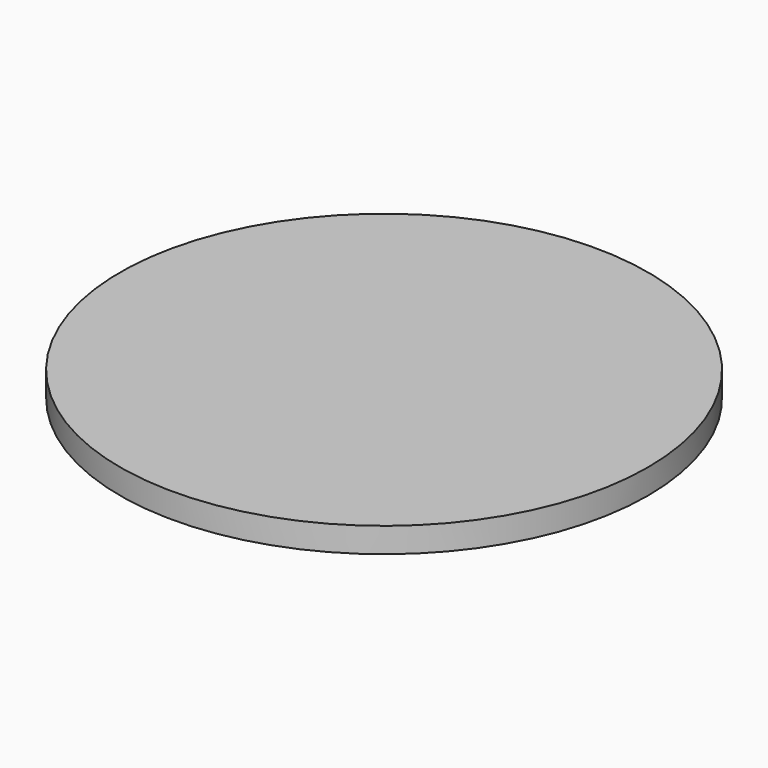
from build123d import *

# Parameters (mm, degrees)
F0_R     = 14.25
F0_R_2   = 2.5
F1_DEPTH = 16
F2_DEPTH = 19
F3_R     = 63.5
F4_DEPTH = 6
F5_R     = 4.15
F6_DEPTH = 4


with BuildPart() as f1:
    # F0 (on Top) → F1 (new body)
    with BuildSketch(Plane.XY):
        Circle(F0_R)
        Circle(F0_R_2, mode=Mode.SUBTRACT)
    extrude(amount=F1_DEPTH)

    # F0 (on Top) → F2 (join)
    with BuildSketch(Plane.XY):
        Circle(F0_R_2)
    extrude(amount=F2_DEPTH)

    # F3 (on face) → F4 (join)
    with BuildSketch(Plane.XY.offset(16)):
        Circle(F3_R)
    extrude(amount=F4_DEPTH)

    # F5 (on face) → F6 (join)
    with BuildSketch(Plane(origin=(0, 0, 0), x_dir=(1, 0, 0), z_dir=(0, 0, -1))):
        Circle(F5_R)
    extrude(amount=F6_DEPTH)


solid = f1.part
